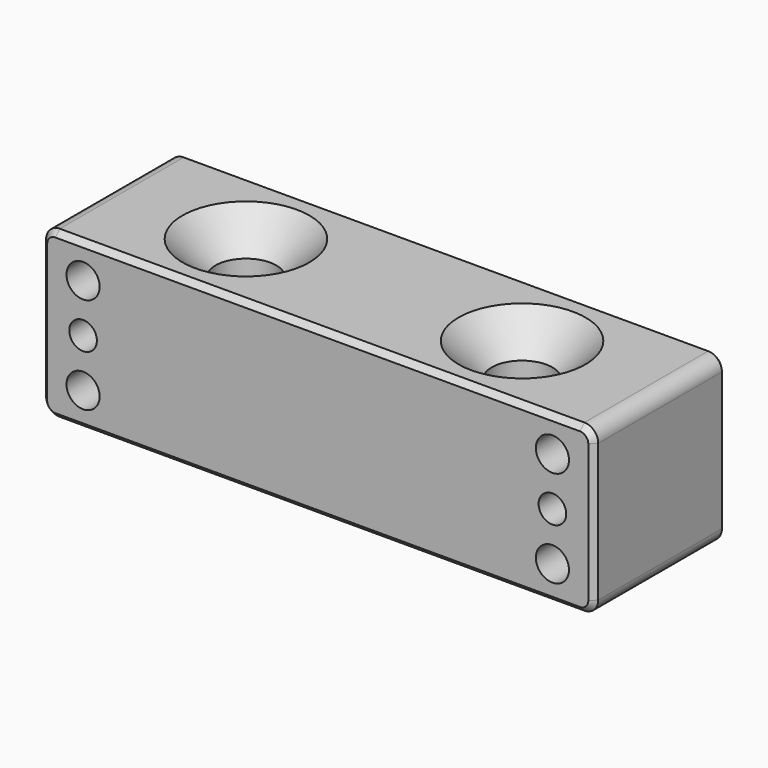
from build123d import *

# Parameters (mm, degrees)
SKETCH_W        = 10
SKETCH_H        = 6
PAD_DEPTH       = 3
SKETCH001_R     = 1.1
POCKET_DEPTH    = 6.001
SKETCH002_R     = 0.5
POCKET001_DEPTH = 1
CHAMFER_SIZE    = 1.2
SKETCH004_R     = 0.6
POCKET002_DEPTH = 6.001
FILLET_R        = 0.5
CHAMFER001_SIZE = 0.2


with BuildPart() as part:
    # Sketch → Pad (new body, symmetric)
    with BuildSketch(Plane.XY):
        with Locations((-5, 0)):
            Rectangle(SKETCH_W, SKETCH_H)
    extrude(amount=PAD_DEPTH, both=True)

    # Sketch001 (on Face6 of Pad) → Pocket (cut, through all)
    with BuildSketch(Plane.XY.offset(3)):
        with Locations((-5, 0)):
            Circle(SKETCH001_R)
    extrude(amount=-POCKET_DEPTH, mode=Mode.SUBTRACT)

    # Sketch002 (on Face1 of Pocket) → Pocket001 (cut)
    with BuildSketch(Plane.XZ.offset(3)):
        with Locations((-8.5, 0)):
            Circle(SKETCH002_R)
    extrude(amount=-POCKET001_DEPTH, mode=Mode.SUBTRACT)

    # Chamfer
    chamfer_edges = [part.edges().sort_by_distance(p)[0] for p in [
        (-6.1, 0, 3),
    ]]
    chamfer(chamfer_edges, length=CHAMFER_SIZE)

    # Sketch004 (on Face3 of Chamfer) → Pocket002 (cut, through all)
    with BuildSketch(Plane.XZ.offset(3)):
        with Locations((-8.5, 1.75)):
            Circle(SKETCH004_R)
        with Locations((-8.5, -1.75)):
            Circle(SKETCH004_R)
    extrude(amount=-POCKET002_DEPTH, mode=Mode.SUBTRACT)

    # Fillet
    fillet_edges = [part.edges().sort_by_distance(p)[0] for p in [
        (-10, 0, 3),
        (-10, 0, -3),
    ]]
    fillet(fillet_edges, radius=FILLET_R)

    # Mirrored: part across YZ


with BuildPart() as part_1:
    add(part.part)
    add(part.part.mirror(Plane.YZ))

    # Chamfer001
    chamfer001_edges = [part_1.edges().sort_by_distance(p)[0] for p in [
        (10, 3, 0),
        (0, -3, 3),
    ]]
    chamfer(chamfer001_edges, length=CHAMFER001_SIZE)


solid = part_1.part
